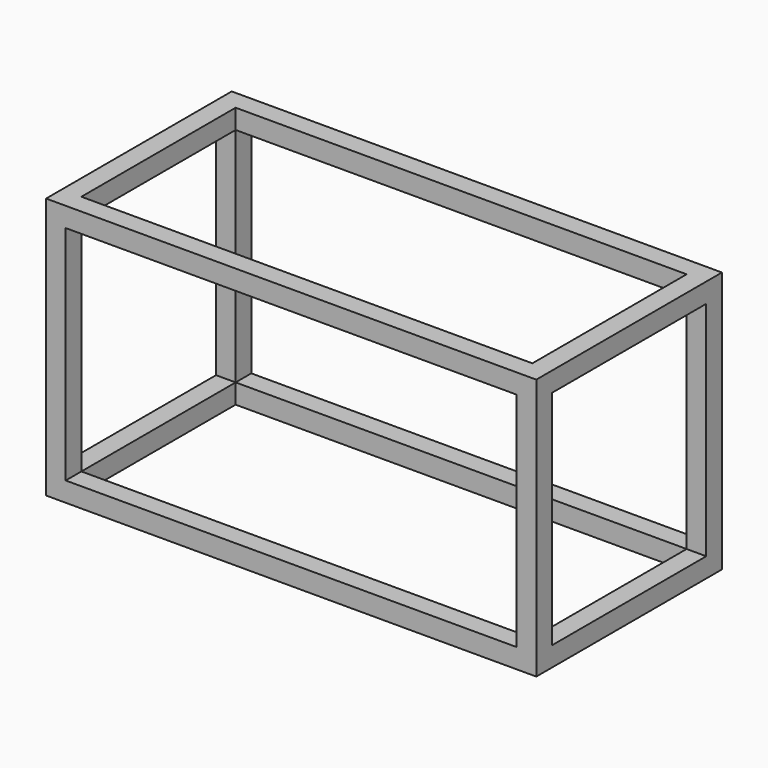
from build123d import *

# Parameters (mm, degrees)
F0_W     = 4572
F0_H     = 2438.4
F1_DEPTH = 182.88
F2_W     = 182.88
F2_H     = 182.88
F3_DEPTH = 1981.2
F4_W     = 182.88
F4_H     = 182.88
F5_DEPTH = 182.88
F6_W     = 4206.24
F6_H     = 2072.64
F7_DEPTH = 2286


with BuildPart() as f1:
    # F0 (on Front) → F1 (new body)
    with BuildSketch(Plane.XZ):
        with Locations((2286, 1219.2)):
            Rectangle(F0_W, F0_H)
    extrude(amount=F1_DEPTH)

    # F2 (on face) → F3 (join)
    with BuildSketch(Plane.XZ):
        with Locations((91.44, 2346.96)):
            Rectangle(F2_W, F2_H)
        with Locations((91.44, 91.44)):
            Rectangle(F2_W, F2_H)
        with Locations((4480.56, 91.44)):
            Rectangle(F2_W, F2_H)
        with Locations((4480.56, 2346.96)):
            Rectangle(F2_W, F2_H)
    extrude(amount=F3_DEPTH)

    # F4 (on face) → F5 (join)
    with BuildSketch(Plane.XZ.offset(1981.2)):
        Polygon((4572, 2438.4), (182.88, 2438.4), (182.88, 2255.52), (0, 2255.52), (0, 0), (4572, 0), align=None)
        with Locations((91.44, 2346.96)):
            Rectangle(F4_W, F4_H)
    extrude(amount=F5_DEPTH)

    # F6 (on face) → F7 (cut)
    with BuildSketch(Plane.XZ.offset(2164.08)):
        with Locations((2286, 1219.2)):
            Rectangle(F6_W, F6_H)
    extrude(amount=-F7_DEPTH, mode=Mode.SUBTRACT)


solid = f1.part
